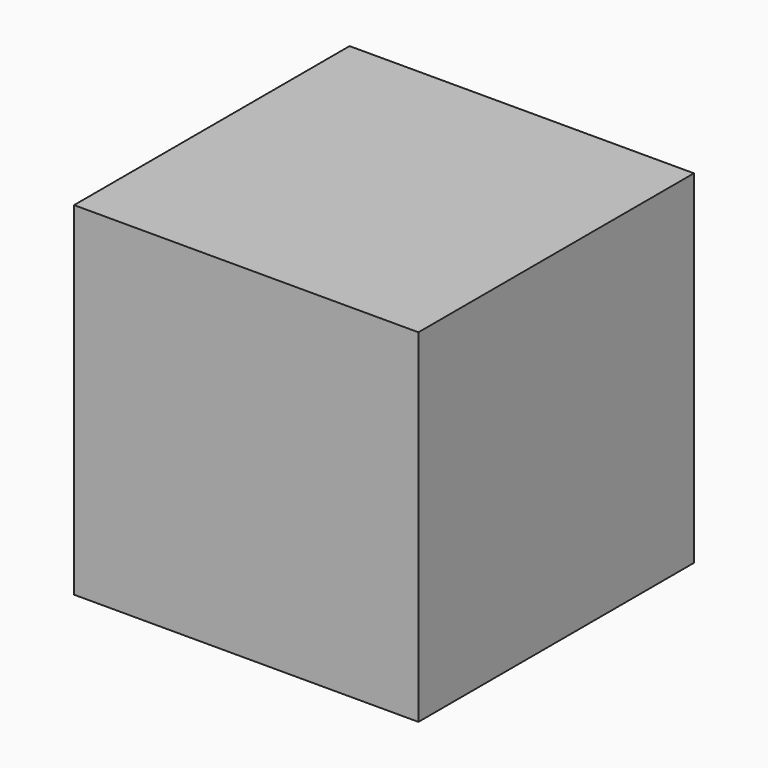
from build123d import *

# Parameters (mm, degrees)
F0_W     = 127.493251
F0_H     = 127.493251
F1_DEPTH = 63.5


with BuildPart() as f1:
    # F0 (on Top) → F1 (new body, symmetric)
    with BuildSketch(Plane.XY):
        with Locations((-10.890653, -9.293361)):
            Rectangle(F0_W, F0_H)
        with Locations((-10.890653, -9.293361)):
            Rectangle(F0_W, F0_H)
    extrude(amount=F1_DEPTH, both=True)


solid = f1.part
